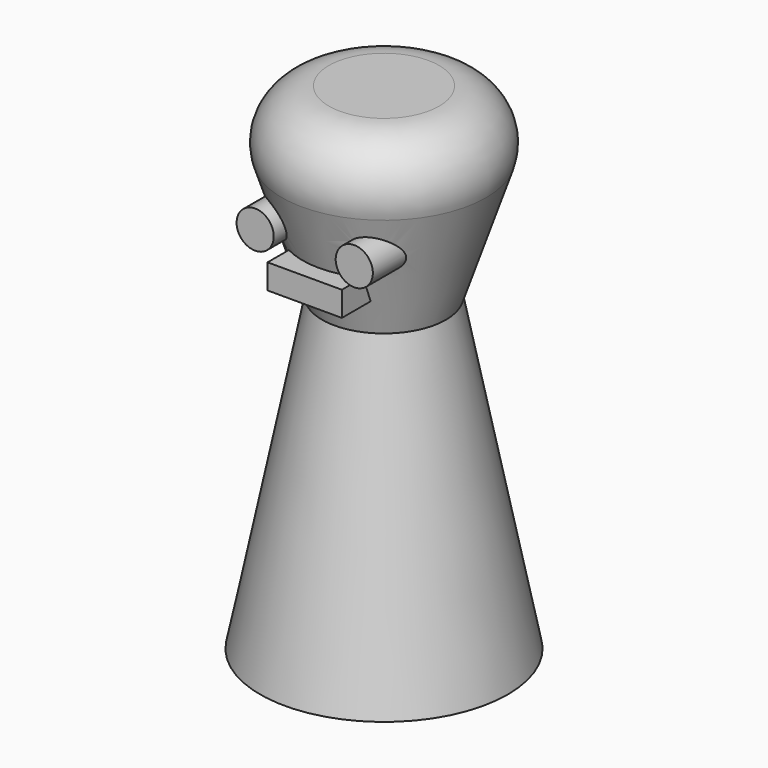
from build123d import *

# Parameters (mm, degrees)
F2_R     = 5.08
F3_R     = 1.905
F3_W     = 7.62
F3_H     = 2.54
F4_DEPTH = 10.16


with BuildPart() as f1:
    # F0 (on Front) → F1 (revolve)
    with BuildSketch(Plane.XZ):
        Polygon((12.7, 50.8), (12.7, 0), (25.4, 0), (19.05, 31.75), (25.4, 50.8), align=None)
    revolve(axis=Axis((12.7, 0, 25.4), (0, 0, -1)))

    # F2
    f2_edges = [f1.edges().sort_by_distance(p)[0] for p in [
        (0, 0, 50.8),
    ]]
    fillet(f2_edges, radius=F2_R)

    # F3 (on Front) → F4 (join)
    with BuildSketch(Plane.XZ):
        with Locations((7.62, 40.3035629486)):
            Circle(F3_R)
        with Locations((17.78, 40.3035629486)):
            Circle(F3_R)
        with Locations((12.7, 36.4935629486)):
            Rectangle(F3_W, F3_H)
    extrude(amount=F4_DEPTH)


solid = f1.part
